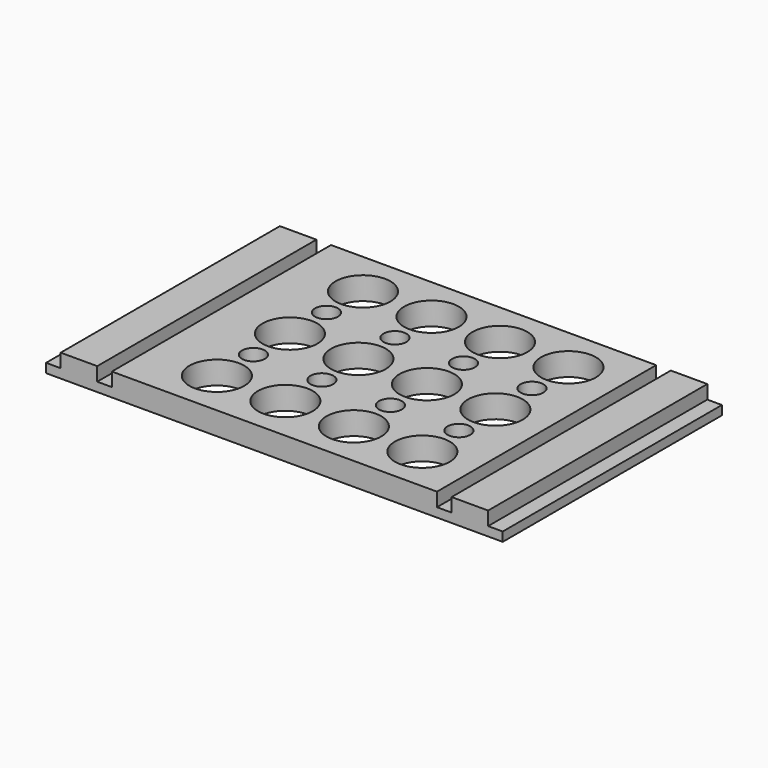
from build123d import *

# Parameters (mm, degrees)
F0_W     = 100
F0_H     = 60
F1_DEPTH = 5
F2_W     = 3.2
F2_H     = 60
F3_DEPTH = 3
F4_R     = 6
F4_R_2   = 2.5
F5_DEPTH = 5


with BuildPart() as f1:
    # F0 (on Top) → F1 (new body)
    with BuildSketch(Plane.XY):
        with Locations((50, -30)):
            Rectangle(F0_W, F0_H)
    extrude(amount=-F1_DEPTH)

    # F2 (on face) → F3 (cut)
    with BuildSketch(Plane.XY):
        with Locations((1.6, -30)):
            Rectangle(F2_W, F2_H)
        with Locations((12.8, -30)):
            Rectangle(F2_W, F2_H)
        with Locations((87.2, -30)):
            Rectangle(F2_W, F2_H)
        with Locations((98.4, -30)):
            Rectangle(F2_W, F2_H)
    extrude(amount=-F3_DEPTH, mode=Mode.SUBTRACT)

    # F4 (on face) → F5 (cut)
    with BuildSketch(Plane.XY):
        with Locations((29.4, -50)):
            Circle(F4_R)
        with Locations((44.4, -50)):
            Circle(F4_R)
        with Locations((59.4, -50)):
            Circle(F4_R)
        with Locations((74.4, -50)):
            Circle(F4_R)
        with Locations((74.4, -40)):
            Circle(F4_R_2)
        with Locations((59.4, -40)):
            Circle(F4_R_2)
        with Locations((44.4, -40)):
            Circle(F4_R_2)
        with Locations((29.4, -40)):
            Circle(F4_R_2)
        with Locations((29.4, -30)):
            Circle(F4_R)
        with Locations((44.4, -30)):
            Circle(F4_R)
        with Locations((59.4, -30)):
            Circle(F4_R)
        with Locations((74.4, -30)):
            Circle(F4_R)
        with Locations((74.4, -20)):
            Circle(F4_R_2)
        with Locations((59.4, -20)):
            Circle(F4_R_2)
        with Locations((44.4, -20)):
            Circle(F4_R_2)
        with Locations((29.4, -20)):
            Circle(F4_R_2)
        with Locations((74.4, -10)):
            Circle(F4_R)
        with Locations((59.4, -10)):
            Circle(F4_R)
        with Locations((44.4, -10)):
            Circle(F4_R)
        with Locations((29.4, -10)):
            Circle(F4_R)
    extrude(amount=-F5_DEPTH, mode=Mode.SUBTRACT)


solid = f1.part
